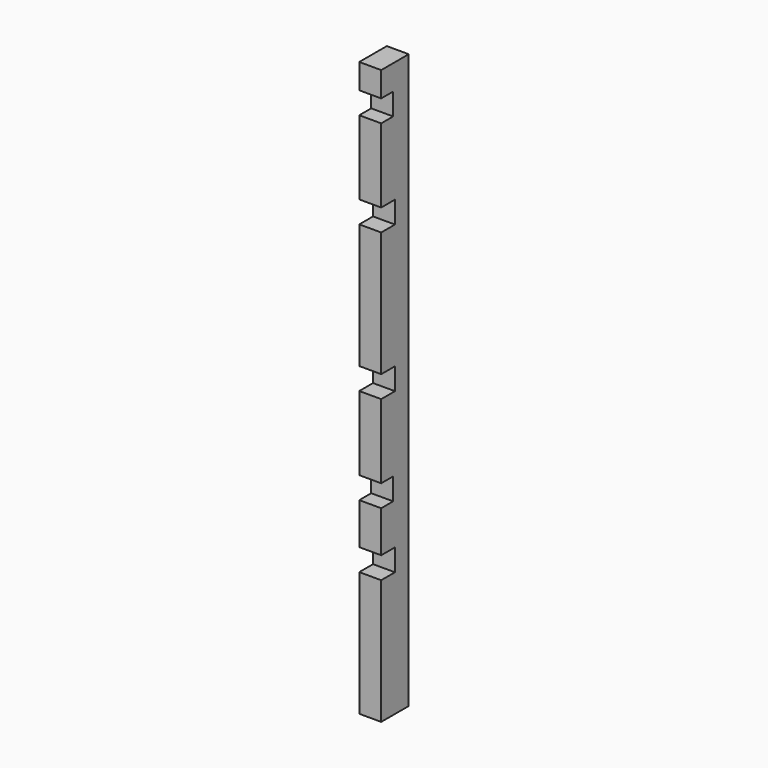
from build123d import *

# Parameters (mm, degrees)
F0_W     = 44
F0_H     = 69
F1_DEPTH = 1100
F2_W     = 30
F2_H     = 44
F3_DEPTH = 44.001
F4_W     = 34.5
F4_H     = 44
F5_DEPTH = 44.001
F6_DEPTH = 50
F7_W     = 34.5
F7_H     = 44
F8_DEPTH = 133


with BuildPart() as f1:
    # F0 (on Top) → F1 (new body)
    with BuildSketch(Plane.XY):
        Rectangle(F0_W, F0_H)
    extrude(amount=F1_DEPTH)

    # F2 (on face) → F3 (cut, through all)
    with BuildSketch(Plane.YZ.offset(22)):
        with Locations((-19.5, 1028)):
            Rectangle(F2_W, F2_H)
        with Locations((-19.5, 349)):
            Rectangle(F2_W, F2_H)
    extrude(amount=-F3_DEPTH, mode=Mode.SUBTRACT)

    # F4 (on face) → F5 (cut, through all)
    with BuildSketch(Plane.YZ.offset(22)):
        with Locations((-17.25, 835.5)):
            Rectangle(F4_W, F4_H)
        with Locations((-17.25, 541.5)):
            Rectangle(F4_W, F4_H)
    extrude(amount=-F5_DEPTH, mode=Mode.SUBTRACT)

    # F6 (add): a face of the model
    f6_faces = [f1.faces().sort_by_distance(p)[0] for p in [
        (0, 0, 0),
    ]]
    extrude(f6_faces, amount=F6_DEPTH)

    # F7 (on face) → F8 (cut)
    with BuildSketch(Plane.YZ.offset(22)):
        with Locations((-17.25, 222)):
            Rectangle(F7_W, F7_H)
    extrude(amount=-F8_DEPTH, mode=Mode.SUBTRACT)


solid = f1.part
